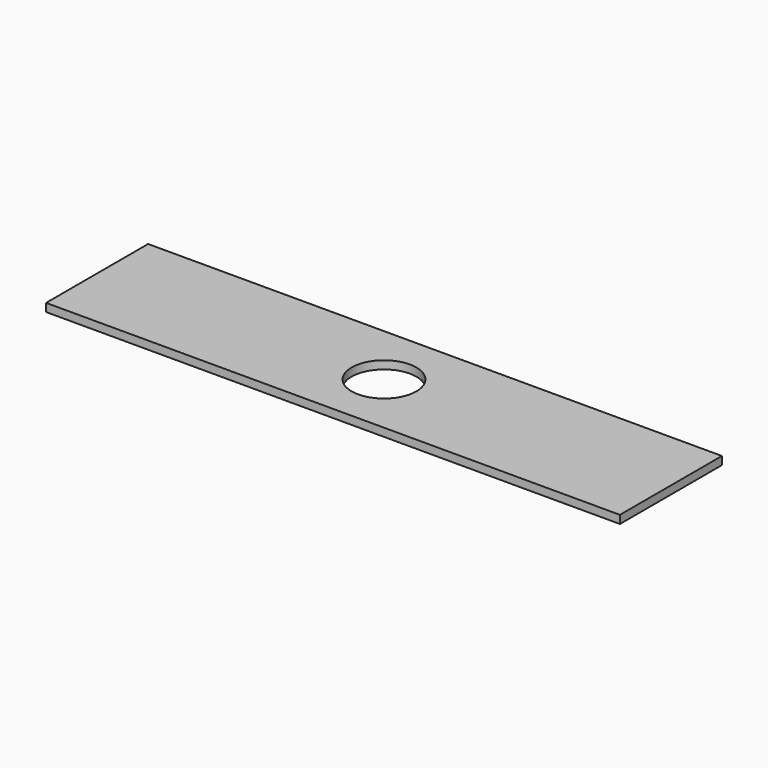
from build123d import *

# Parameters (mm, degrees)
SKETCH_W  = 450
SKETCH_H  = 100
SKETCH_R  = 25.4
PAD_DEPTH = 6.35


with BuildPart() as part:
    # Sketch → Pad (new body)
    with BuildSketch(Plane.XY):
        with Locations((225, 50)):
            Rectangle(SKETCH_W, SKETCH_H)
        with Locations((225, 50)):
            Circle(SKETCH_R, mode=Mode.SUBTRACT)
    extrude(amount=PAD_DEPTH)


solid = part.part
